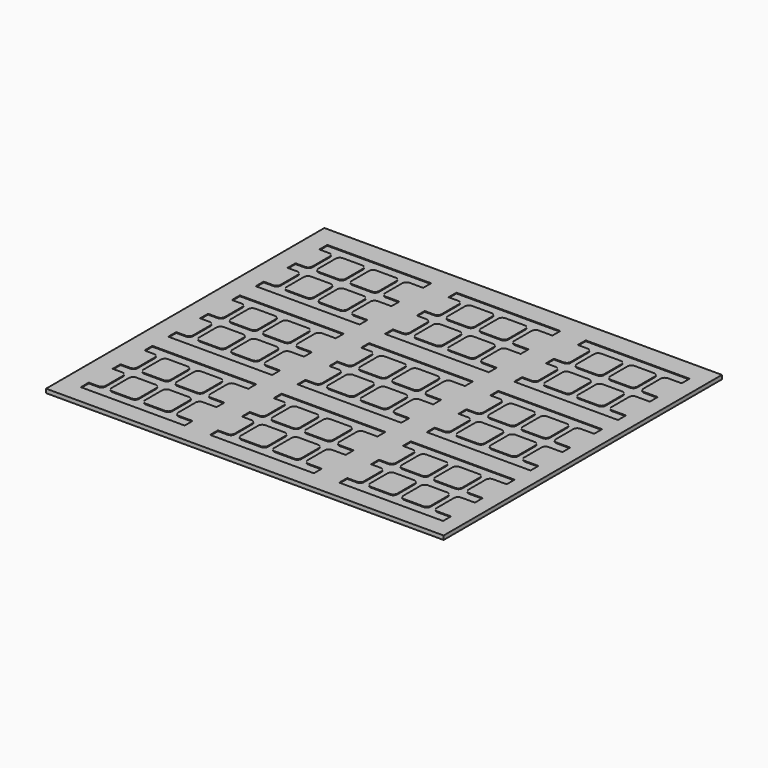
from build123d import *

# Parameters (mm, degrees)
F0_W     = 2
F0_H     = 5
F1_DEPTH = 0.4
F2_W     = 200
F2_H     = 175
F3_DEPTH = 2


with BuildPart() as f1:
    # F0 (on Top) → F1 (new body)
    with BuildSketch(Plane.XY):
        with BuildLine():
            ThreePointArc((20.25, 2.5), (18.835786, 3.085786), (18.25, 4.5))
            Line((18.25, 4.5), (18.25, 15.5))
            ThreePointArc((18.25, 15.5), (18.835786, 16.914214), (20.25, 17.5))
            Line((20.25, 17.5), (25.125, 17.5))
            Line((25.125, 17.5), (25.125, 22.5))
            Line((25.125, 22.5), (-25.125, 22.5))
            Line((-25.125, 22.5), (-25.125, 17.5))
            Line((-25.125, 17.5), (-20.25, 17.5))
            ThreePointArc((-20.25, 17.5), (-18.835786, 16.914214), (-18.25, 15.5))
            Line((-18.25, 15.5), (-18.25, 4.5))
            ThreePointArc((-18.25, 4.5), (-18.835786, 3.085786), (-20.25, 2.5))
            Line((-20.25, 2.5), (-25.125, 2.5))
            Line((-25.125, 2.5), (-25.125, -2.5))
            Line((-25.125, -2.5), (-20.25, -2.5))
            ThreePointArc((-20.25, -2.5), (-18.835786, -3.085786), (-18.25, -4.5))
            Line((-18.25, -4.5), (-18.25, -15.5))
            ThreePointArc((-18.25, -15.5), (-18.835786, -16.914214), (-20.25, -17.5))
            Line((-20.25, -17.5), (-25.125, -17.5))
            Line((-25.125, -17.5), (-25.125, -22.5))
            Line((-25.125, -22.5), (25.125, -22.5))
            Line((25.125, -22.5), (25.125, -17.5))
            Line((25.125, -17.5), (20.25, -17.5))
            ThreePointArc((20.25, -17.5), (18.835786, -16.914214), (18.25, -15.5))
            Line((18.25, -15.5), (18.25, -4.5))
            ThreePointArc((18.25, -4.5), (18.835786, -3.085786), (20.25, -2.5))
            Line((20.25, -2.5), (25.125, -2.5))
            Line((25.125, -2.5), (25.125, 2.5))
            Line((25.125, 2.5), (20.25, 2.5))
        make_face()
        with BuildLine():
            Line((-1.5, -4.5), (-1.5, -15.5))
            ThreePointArc((-1.5, -15.5), (-2.085786, -16.914214), (-3.5, -17.5))
            Line((-3.5, -17.5), (-13.25, -17.5))
            ThreePointArc((-13.25, -17.5), (-14.664214, -16.914214), (-15.25, -15.5))
            Line((-15.25, -15.5), (-15.25, -4.5))
            ThreePointArc((-15.25, -4.5), (-14.664214, -3.085786), (-13.25, -2.5))
            Line((-13.25, -2.5), (-3.5, -2.5))
            ThreePointArc((-3.5, -2.5), (-2.085786, -3.085786), (-1.5, -4.5))
        make_face(mode=Mode.SUBTRACT)
        with BuildLine():
            ThreePointArc((13.25, -2.5), (14.664214, -3.085786), (15.25, -4.5))
            Line((15.25, -4.5), (15.25, -15.5))
            ThreePointArc((15.25, -15.5), (14.664214, -16.914214), (13.25, -17.5))
            Line((13.25, -17.5), (3.5, -17.5))
            ThreePointArc((3.5, -17.5), (2.085786, -16.914214), (1.5, -15.5))
            Line((1.5, -15.5), (1.5, -4.5))
            ThreePointArc((1.5, -4.5), (2.085786, -3.085786), (3.5, -2.5))
            Line((3.5, -2.5), (13.25, -2.5))
        make_face(mode=Mode.SUBTRACT)
        with BuildLine():
            ThreePointArc((-1.5, 4.5), (-2.085786, 3.085786), (-3.5, 2.5))
            Line((-3.5, 2.5), (-13.25, 2.5))
            ThreePointArc((-13.25, 2.5), (-14.664214, 3.085786), (-15.25, 4.5))
            Line((-15.25, 4.5), (-15.25, 15.5))
            ThreePointArc((-15.25, 15.5), (-14.664214, 16.914214), (-13.25, 17.5))
            Line((-13.25, 17.5), (-3.5, 17.5))
            ThreePointArc((-3.5, 17.5), (-2.085786, 16.914214), (-1.5, 15.5))
            Line((-1.5, 15.5), (-1.5, 4.5))
        make_face(mode=Mode.SUBTRACT)
        with BuildLine():
            Line((15.25, 15.5), (15.25, 4.5))
            ThreePointArc((15.25, 4.5), (14.664214, 3.085786), (13.25, 2.5))
            Line((13.25, 2.5), (3.5, 2.5))
            ThreePointArc((3.5, 2.5), (2.085786, 3.085786), (1.5, 4.5))
            Line((1.5, 4.5), (1.5, 15.5))
            ThreePointArc((1.5, 15.5), (2.085786, 16.914214), (3.5, 17.5))
            Line((3.5, 17.5), (13.25, 17.5))
            ThreePointArc((13.25, 17.5), (14.664214, 16.914214), (15.25, 15.5))
        make_face(mode=Mode.SUBTRACT)
        with Locations((26.125, 0)):
            Rectangle(F0_W, F0_H)
        with Locations((26.125, 20)):
            Rectangle(F0_W, F0_H)
        with Locations((26.125, -20)):
            Rectangle(F0_W, F0_H)
        with BuildLine():
            Line((25.125, 52.5), (25.125, 57.5))
            Line((25.125, 57.5), (20.25, 57.5))
            ThreePointArc((20.25, 57.5), (18.835786, 58.085786), (18.25, 59.5))
            Line((18.25, 59.5), (18.25, 70.5))
            ThreePointArc((18.25, 70.5), (18.835786, 71.914214), (20.25, 72.5))
            Line((20.25, 72.5), (25.125, 72.5))
            Line((25.125, 72.5), (25.125, 77.5))
            Line((25.125, 77.5), (-25.125, 77.5))
            Line((-25.125, 77.5), (-25.125, 72.5))
            Line((-25.125, 72.5), (-20.25, 72.5))
            ThreePointArc((-20.25, 72.5), (-18.835786, 71.914214), (-18.25, 70.5))
            Line((-18.25, 70.5), (-18.25, 59.5))
            ThreePointArc((-18.25, 59.5), (-18.835786, 58.085786), (-20.25, 57.5))
            Line((-20.25, 57.5), (-25.125, 57.5))
            Line((-25.125, 57.5), (-25.125, 52.5))
            Line((-25.125, 52.5), (-20.25, 52.5))
            ThreePointArc((-20.25, 52.5), (-18.835786, 51.914214), (-18.25, 50.5))
            Line((-18.25, 50.5), (-18.25, 39.5))
            ThreePointArc((-18.25, 39.5), (-18.835786, 38.085786), (-20.25, 37.5))
            Line((-20.25, 37.5), (-25.125, 37.5))
            Line((-25.125, 37.5), (-25.125, 32.5))
            Line((-25.125, 32.5), (25.125, 32.5))
            Line((25.125, 32.5), (25.125, 37.5))
            Line((25.125, 37.5), (20.25, 37.5))
            ThreePointArc((20.25, 37.5), (18.835786, 38.085786), (18.25, 39.5))
            Line((18.25, 39.5), (18.25, 50.5))
            ThreePointArc((18.25, 50.5), (18.835786, 51.914214), (20.25, 52.5))
            Line((20.25, 52.5), (25.125, 52.5))
        make_face()
        with BuildLine():
            Line((-15.25, 39.5), (-15.25, 50.5))
            ThreePointArc((-15.25, 50.5), (-14.664214, 51.914214), (-13.25, 52.5))
            Line((-13.25, 52.5), (-3.5, 52.5))
            ThreePointArc((-3.5, 52.5), (-2.085786, 51.914214), (-1.5, 50.5))
            Line((-1.5, 50.5), (-1.5, 39.5))
            ThreePointArc((-1.5, 39.5), (-2.085786, 38.085786), (-3.5, 37.5))
            Line((-3.5, 37.5), (-13.25, 37.5))
            ThreePointArc((-13.25, 37.5), (-14.664214, 38.085786), (-15.25, 39.5))
        make_face(mode=Mode.SUBTRACT)
        with BuildLine():
            Line((1.5, 39.5), (1.5, 50.5))
            ThreePointArc((1.5, 50.5), (2.085786, 51.914214), (3.5, 52.5))
            Line((3.5, 52.5), (13.25, 52.5))
            ThreePointArc((13.25, 52.5), (14.664214, 51.914214), (15.25, 50.5))
            Line((15.25, 50.5), (15.25, 39.5))
            ThreePointArc((15.25, 39.5), (14.664214, 38.085786), (13.25, 37.5))
            Line((13.25, 37.5), (3.5, 37.5))
            ThreePointArc((3.5, 37.5), (2.085786, 38.085786), (1.5, 39.5))
        make_face(mode=Mode.SUBTRACT)
        with BuildLine():
            ThreePointArc((-1.5, 59.5), (-2.085786, 58.085786), (-3.5, 57.5))
            Line((-3.5, 57.5), (-13.25, 57.5))
            ThreePointArc((-13.25, 57.5), (-14.664214, 58.085786), (-15.25, 59.5))
            Line((-15.25, 59.5), (-15.25, 70.5))
            ThreePointArc((-15.25, 70.5), (-14.664214, 71.914214), (-13.25, 72.5))
            Line((-13.25, 72.5), (-3.5, 72.5))
            ThreePointArc((-3.5, 72.5), (-2.085786, 71.914214), (-1.5, 70.5))
            Line((-1.5, 70.5), (-1.5, 59.5))
        make_face(mode=Mode.SUBTRACT)
        with BuildLine():
            ThreePointArc((3.5, 57.5), (2.085786, 58.085786), (1.5, 59.5))
            Line((1.5, 59.5), (1.5, 70.5))
            ThreePointArc((1.5, 70.5), (2.085786, 71.914214), (3.5, 72.5))
            Line((3.5, 72.5), (13.25, 72.5))
            ThreePointArc((13.25, 72.5), (14.664214, 71.914214), (15.25, 70.5))
            Line((15.25, 70.5), (15.25, 59.5))
            ThreePointArc((15.25, 59.5), (14.664214, 58.085786), (13.25, 57.5))
            Line((13.25, 57.5), (3.5, 57.5))
        make_face(mode=Mode.SUBTRACT)
        with Locations((26.125, 55)):
            Rectangle(F0_W, F0_H)
        with Locations((26.125, 75)):
            Rectangle(F0_W, F0_H)
        with Locations((26.125, 35)):
            Rectangle(F0_W, F0_H)
        with BuildLine():
            Line((25.125, 107.5), (25.125, 112.5))
            Line((25.125, 112.5), (20.25, 112.5))
            ThreePointArc((20.25, 112.5), (18.835786, 113.085786), (18.25, 114.5))
            Line((18.25, 114.5), (18.25, 125.5))
            ThreePointArc((18.25, 125.5), (18.835786, 126.914214), (20.25, 127.5))
            Line((20.25, 127.5), (25.125, 127.5))
            Line((25.125, 127.5), (25.125, 132.5))
            Line((25.125, 132.5), (-25.125, 132.5))
            Line((-25.125, 132.5), (-25.125, 127.5))
            Line((-25.125, 127.5), (-20.25, 127.5))
            ThreePointArc((-20.25, 127.5), (-18.835786, 126.914214), (-18.25, 125.5))
            Line((-18.25, 125.5), (-18.25, 114.5))
            ThreePointArc((-18.25, 114.5), (-18.835786, 113.085786), (-20.25, 112.5))
            Line((-20.25, 112.5), (-25.125, 112.5))
            Line((-25.125, 112.5), (-25.125, 107.5))
            Line((-25.125, 107.5), (-20.25, 107.5))
            ThreePointArc((-20.25, 107.5), (-18.835786, 106.914214), (-18.25, 105.5))
            Line((-18.25, 105.5), (-18.25, 94.5))
            ThreePointArc((-18.25, 94.5), (-18.835786, 93.085786), (-20.25, 92.5))
            Line((-20.25, 92.5), (-25.125, 92.5))
            Line((-25.125, 92.5), (-25.125, 87.5))
            Line((-25.125, 87.5), (25.125, 87.5))
            Line((25.125, 87.5), (25.125, 92.5))
            Line((25.125, 92.5), (20.25, 92.5))
            ThreePointArc((20.25, 92.5), (18.835786, 93.085786), (18.25, 94.5))
            Line((18.25, 94.5), (18.25, 105.5))
            ThreePointArc((18.25, 105.5), (18.835786, 106.914214), (20.25, 107.5))
            Line((20.25, 107.5), (25.125, 107.5))
        make_face()
        with BuildLine():
            Line((-15.25, 94.5), (-15.25, 105.5))
            ThreePointArc((-15.25, 105.5), (-14.664214, 106.914214), (-13.25, 107.5))
            Line((-13.25, 107.5), (-3.5, 107.5))
            ThreePointArc((-3.5, 107.5), (-2.085786, 106.914214), (-1.5, 105.5))
            Line((-1.5, 105.5), (-1.5, 94.5))
            ThreePointArc((-1.5, 94.5), (-2.085786, 93.085786), (-3.5, 92.5))
            Line((-3.5, 92.5), (-13.25, 92.5))
            ThreePointArc((-13.25, 92.5), (-14.664214, 93.085786), (-15.25, 94.5))
        make_face(mode=Mode.SUBTRACT)
        with BuildLine():
            Line((1.5, 94.5), (1.5, 105.5))
            ThreePointArc((1.5, 105.5), (2.085786, 106.914214), (3.5, 107.5))
            Line((3.5, 107.5), (13.25, 107.5))
            ThreePointArc((13.25, 107.5), (14.664214, 106.914214), (15.25, 105.5))
            Line((15.25, 105.5), (15.25, 94.5))
            ThreePointArc((15.25, 94.5), (14.664214, 93.085786), (13.25, 92.5))
            Line((13.25, 92.5), (3.5, 92.5))
            ThreePointArc((3.5, 92.5), (2.085786, 93.085786), (1.5, 94.5))
        make_face(mode=Mode.SUBTRACT)
        with BuildLine():
            ThreePointArc((-1.5, 114.5), (-2.085786, 113.085786), (-3.5, 112.5))
            Line((-3.5, 112.5), (-13.25, 112.5))
            ThreePointArc((-13.25, 112.5), (-14.664214, 113.085786), (-15.25, 114.5))
            Line((-15.25, 114.5), (-15.25, 125.5))
            ThreePointArc((-15.25, 125.5), (-14.664214, 126.914214), (-13.25, 127.5))
            Line((-13.25, 127.5), (-3.5, 127.5))
            ThreePointArc((-3.5, 127.5), (-2.085786, 126.914214), (-1.5, 125.5))
            Line((-1.5, 125.5), (-1.5, 114.5))
        make_face(mode=Mode.SUBTRACT)
        with BuildLine():
            ThreePointArc((3.5, 112.5), (2.085786, 113.085786), (1.5, 114.5))
            Line((1.5, 114.5), (1.5, 125.5))
            ThreePointArc((1.5, 125.5), (2.085786, 126.914214), (3.5, 127.5))
            Line((3.5, 127.5), (13.25, 127.5))
            ThreePointArc((13.25, 127.5), (14.664214, 126.914214), (15.25, 125.5))
            Line((15.25, 125.5), (15.25, 114.5))
            ThreePointArc((15.25, 114.5), (14.664214, 113.085786), (13.25, 112.5))
            Line((13.25, 112.5), (3.5, 112.5))
        make_face(mode=Mode.SUBTRACT)
        with Locations((26.125, 110)):
            Rectangle(F0_W, F0_H)
        with Locations((26.125, 130)):
            Rectangle(F0_W, F0_H)
        with Locations((26.125, 90)):
            Rectangle(F0_W, F0_H)
        with BuildLine():
            Line((90.125, -2.5), (90.125, 2.5))
            Line((90.125, 2.5), (85.25, 2.5))
            ThreePointArc((85.25, 2.5), (83.835786, 3.085786), (83.25, 4.5))
            Line((83.25, 4.5), (83.25, 15.5))
            ThreePointArc((83.25, 15.5), (83.835786, 16.914214), (85.25, 17.5))
            Line((85.25, 17.5), (90.125, 17.5))
            Line((90.125, 17.5), (90.125, 22.5))
            Line((90.125, 22.5), (39.875, 22.5))
            Line((39.875, 22.5), (39.875, 17.5))
            Line((39.875, 17.5), (44.75, 17.5))
            ThreePointArc((44.75, 17.5), (46.164214, 16.914214), (46.75, 15.5))
            Line((46.75, 15.5), (46.75, 4.5))
            ThreePointArc((46.75, 4.5), (46.164214, 3.085786), (44.75, 2.5))
            Line((44.75, 2.5), (39.875, 2.5))
            Line((39.875, 2.5), (39.875, -2.5))
            Line((39.875, -2.5), (44.75, -2.5))
            ThreePointArc((44.75, -2.5), (46.164214, -3.085786), (46.75, -4.5))
            Line((46.75, -4.5), (46.75, -15.5))
            ThreePointArc((46.75, -15.5), (46.164214, -16.914214), (44.75, -17.5))
            Line((44.75, -17.5), (39.875, -17.5))
            Line((39.875, -17.5), (39.875, -22.5))
            Line((39.875, -22.5), (90.125, -22.5))
            Line((90.125, -22.5), (90.125, -17.5))
            Line((90.125, -17.5), (85.25, -17.5))
            ThreePointArc((85.25, -17.5), (83.835786, -16.914214), (83.25, -15.5))
            Line((83.25, -15.5), (83.25, -4.5))
            ThreePointArc((83.25, -4.5), (83.835786, -3.085786), (85.25, -2.5))
            Line((85.25, -2.5), (90.125, -2.5))
        make_face()
        with BuildLine():
            Line((49.75, -15.5), (49.75, -4.5))
            ThreePointArc((49.75, -4.5), (50.335786, -3.085786), (51.75, -2.5))
            Line((51.75, -2.5), (61.5, -2.5))
            ThreePointArc((61.5, -2.5), (62.914214, -3.085786), (63.5, -4.5))
            Line((63.5, -4.5), (63.5, -15.5))
            ThreePointArc((63.5, -15.5), (62.914214, -16.914214), (61.5, -17.5))
            Line((61.5, -17.5), (51.75, -17.5))
            ThreePointArc((51.75, -17.5), (50.335786, -16.914214), (49.75, -15.5))
        make_face(mode=Mode.SUBTRACT)
        with BuildLine():
            ThreePointArc((63.5, 4.5), (62.914214, 3.085786), (61.5, 2.5))
            Line((61.5, 2.5), (51.75, 2.5))
            ThreePointArc((51.75, 2.5), (50.335786, 3.085786), (49.75, 4.5))
            Line((49.75, 4.5), (49.75, 15.5))
            ThreePointArc((49.75, 15.5), (50.335786, 16.914214), (51.75, 17.5))
            Line((51.75, 17.5), (61.5, 17.5))
            ThreePointArc((61.5, 17.5), (62.914214, 16.914214), (63.5, 15.5))
            Line((63.5, 15.5), (63.5, 4.5))
        make_face(mode=Mode.SUBTRACT)
        with BuildLine():
            Line((66.5, -15.5), (66.5, -4.5))
            ThreePointArc((66.5, -4.5), (67.085786, -3.085786), (68.5, -2.5))
            Line((68.5, -2.5), (78.25, -2.5))
            ThreePointArc((78.25, -2.5), (79.664214, -3.085786), (80.25, -4.5))
            Line((80.25, -4.5), (80.25, -15.5))
            ThreePointArc((80.25, -15.5), (79.664214, -16.914214), (78.25, -17.5))
            Line((78.25, -17.5), (68.5, -17.5))
            ThreePointArc((68.5, -17.5), (67.085786, -16.914214), (66.5, -15.5))
        make_face(mode=Mode.SUBTRACT)
        with BuildLine():
            ThreePointArc((68.5, 2.5), (67.085786, 3.085786), (66.5, 4.5))
            Line((66.5, 4.5), (66.5, 15.5))
            ThreePointArc((66.5, 15.5), (67.085786, 16.914214), (68.5, 17.5))
            Line((68.5, 17.5), (78.25, 17.5))
            ThreePointArc((78.25, 17.5), (79.664214, 16.914214), (80.25, 15.5))
            Line((80.25, 15.5), (80.25, 4.5))
            ThreePointArc((80.25, 4.5), (79.664214, 3.085786), (78.25, 2.5))
            Line((78.25, 2.5), (68.5, 2.5))
        make_face(mode=Mode.SUBTRACT)
        with Locations((91.125, 0)):
            Rectangle(F0_W, F0_H)
        with Locations((91.125, 20)):
            Rectangle(F0_W, F0_H)
        with Locations((91.125, -20)):
            Rectangle(F0_W, F0_H)
        with BuildLine():
            Line((90.125, 52.5), (90.125, 57.5))
            Line((90.125, 57.5), (85.25, 57.5))
            ThreePointArc((85.25, 57.5), (83.835786, 58.085786), (83.25, 59.5))
            Line((83.25, 59.5), (83.25, 70.5))
            ThreePointArc((83.25, 70.5), (83.835786, 71.914214), (85.25, 72.5))
            Line((85.25, 72.5), (90.125, 72.5))
            Line((90.125, 72.5), (90.125, 77.5))
            Line((90.125, 77.5), (39.875, 77.5))
            Line((39.875, 77.5), (39.875, 72.5))
            Line((39.875, 72.5), (44.75, 72.5))
            ThreePointArc((44.75, 72.5), (46.164214, 71.914214), (46.75, 70.5))
            Line((46.75, 70.5), (46.75, 59.5))
            ThreePointArc((46.75, 59.5), (46.164214, 58.085786), (44.75, 57.5))
            Line((44.75, 57.5), (39.875, 57.5))
            Line((39.875, 57.5), (39.875, 52.5))
            Line((39.875, 52.5), (44.75, 52.5))
            ThreePointArc((44.75, 52.5), (46.164214, 51.914214), (46.75, 50.5))
            Line((46.75, 50.5), (46.75, 39.5))
            ThreePointArc((46.75, 39.5), (46.164214, 38.085786), (44.75, 37.5))
            Line((44.75, 37.5), (39.875, 37.5))
            Line((39.875, 37.5), (39.875, 32.5))
            Line((39.875, 32.5), (90.125, 32.5))
            Line((90.125, 32.5), (90.125, 37.5))
            Line((90.125, 37.5), (85.25, 37.5))
            ThreePointArc((85.25, 37.5), (83.835786, 38.085786), (83.25, 39.5))
            Line((83.25, 39.5), (83.25, 50.5))
            ThreePointArc((83.25, 50.5), (83.835786, 51.914214), (85.25, 52.5))
            Line((85.25, 52.5), (90.125, 52.5))
        make_face()
        with BuildLine():
            Line((49.75, 39.5), (49.75, 50.5))
            ThreePointArc((49.75, 50.5), (50.335786, 51.914214), (51.75, 52.5))
            Line((51.75, 52.5), (61.5, 52.5))
            ThreePointArc((61.5, 52.5), (62.914214, 51.914214), (63.5, 50.5))
            Line((63.5, 50.5), (63.5, 39.5))
            ThreePointArc((63.5, 39.5), (62.914214, 38.085786), (61.5, 37.5))
            Line((61.5, 37.5), (51.75, 37.5))
            ThreePointArc((51.75, 37.5), (50.335786, 38.085786), (49.75, 39.5))
        make_face(mode=Mode.SUBTRACT)
        with BuildLine():
            Line((66.5, 39.5), (66.5, 50.5))
            ThreePointArc((66.5, 50.5), (67.085786, 51.914214), (68.5, 52.5))
            Line((68.5, 52.5), (78.25, 52.5))
            ThreePointArc((78.25, 52.5), (79.664214, 51.914214), (80.25, 50.5))
            Line((80.25, 50.5), (80.25, 39.5))
            ThreePointArc((80.25, 39.5), (79.664214, 38.085786), (78.25, 37.5))
            Line((78.25, 37.5), (68.5, 37.5))
            ThreePointArc((68.5, 37.5), (67.085786, 38.085786), (66.5, 39.5))
        make_face(mode=Mode.SUBTRACT)
        with BuildLine():
            ThreePointArc((63.5, 59.5), (62.914214, 58.085786), (61.5, 57.5))
            Line((61.5, 57.5), (51.75, 57.5))
            ThreePointArc((51.75, 57.5), (50.335786, 58.085786), (49.75, 59.5))
            Line((49.75, 59.5), (49.75, 70.5))
            ThreePointArc((49.75, 70.5), (50.335786, 71.914214), (51.75, 72.5))
            Line((51.75, 72.5), (61.5, 72.5))
            ThreePointArc((61.5, 72.5), (62.914214, 71.914214), (63.5, 70.5))
            Line((63.5, 70.5), (63.5, 59.5))
        make_face(mode=Mode.SUBTRACT)
        with BuildLine():
            ThreePointArc((68.5, 57.5), (67.085786, 58.085786), (66.5, 59.5))
            Line((66.5, 59.5), (66.5, 70.5))
            ThreePointArc((66.5, 70.5), (67.085786, 71.914214), (68.5, 72.5))
            Line((68.5, 72.5), (78.25, 72.5))
            ThreePointArc((78.25, 72.5), (79.664214, 71.914214), (80.25, 70.5))
            Line((80.25, 70.5), (80.25, 59.5))
            ThreePointArc((80.25, 59.5), (79.664214, 58.085786), (78.25, 57.5))
            Line((78.25, 57.5), (68.5, 57.5))
        make_face(mode=Mode.SUBTRACT)
        with Locations((91.125, 55)):
            Rectangle(F0_W, F0_H)
        with Locations((91.125, 75)):
            Rectangle(F0_W, F0_H)
        with Locations((91.125, 35)):
            Rectangle(F0_W, F0_H)
        with BuildLine():
            Line((90.125, 107.5), (90.125, 112.5))
            Line((90.125, 112.5), (85.25, 112.5))
            ThreePointArc((85.25, 112.5), (83.835786, 113.085786), (83.25, 114.5))
            Line((83.25, 114.5), (83.25, 125.5))
            ThreePointArc((83.25, 125.5), (83.835786, 126.914214), (85.25, 127.5))
            Line((85.25, 127.5), (90.125, 127.5))
            Line((90.125, 127.5), (90.125, 132.5))
            Line((90.125, 132.5), (39.875, 132.5))
            Line((39.875, 132.5), (39.875, 127.5))
            Line((39.875, 127.5), (44.75, 127.5))
            ThreePointArc((44.75, 127.5), (46.164214, 126.914214), (46.75, 125.5))
            Line((46.75, 125.5), (46.75, 114.5))
            ThreePointArc((46.75, 114.5), (46.164214, 113.085786), (44.75, 112.5))
            Line((44.75, 112.5), (39.875, 112.5))
            Line((39.875, 112.5), (39.875, 107.5))
            Line((39.875, 107.5), (44.75, 107.5))
            ThreePointArc((44.75, 107.5), (46.164214, 106.914214), (46.75, 105.5))
            Line((46.75, 105.5), (46.75, 94.5))
            ThreePointArc((46.75, 94.5), (46.164214, 93.085786), (44.75, 92.5))
            Line((44.75, 92.5), (39.875, 92.5))
            Line((39.875, 92.5), (39.875, 87.5))
            Line((39.875, 87.5), (90.125, 87.5))
            Line((90.125, 87.5), (90.125, 92.5))
            Line((90.125, 92.5), (85.25, 92.5))
            ThreePointArc((85.25, 92.5), (83.835786, 93.085786), (83.25, 94.5))
            Line((83.25, 94.5), (83.25, 105.5))
            ThreePointArc((83.25, 105.5), (83.835786, 106.914214), (85.25, 107.5))
            Line((85.25, 107.5), (90.125, 107.5))
        make_face()
        with BuildLine():
            Line((49.75, 94.5), (49.75, 105.5))
            ThreePointArc((49.75, 105.5), (50.335786, 106.914214), (51.75, 107.5))
            Line((51.75, 107.5), (61.5, 107.5))
            ThreePointArc((61.5, 107.5), (62.914214, 106.914214), (63.5, 105.5))
            Line((63.5, 105.5), (63.5, 94.5))
            ThreePointArc((63.5, 94.5), (62.914214, 93.085786), (61.5, 92.5))
            Line((61.5, 92.5), (51.75, 92.5))
            ThreePointArc((51.75, 92.5), (50.335786, 93.085786), (49.75, 94.5))
        make_face(mode=Mode.SUBTRACT)
        with BuildLine():
            ThreePointArc((63.5, 114.5), (62.914214, 113.085786), (61.5, 112.5))
            Line((61.5, 112.5), (51.75, 112.5))
            ThreePointArc((51.75, 112.5), (50.335786, 113.085786), (49.75, 114.5))
            Line((49.75, 114.5), (49.75, 125.5))
            ThreePointArc((49.75, 125.5), (50.335786, 126.914214), (51.75, 127.5))
            Line((51.75, 127.5), (61.5, 127.5))
            ThreePointArc((61.5, 127.5), (62.914214, 126.914214), (63.5, 125.5))
            Line((63.5, 125.5), (63.5, 114.5))
        make_face(mode=Mode.SUBTRACT)
        with BuildLine():
            Line((66.5, 94.5), (66.5, 105.5))
            ThreePointArc((66.5, 105.5), (67.085786, 106.914214), (68.5, 107.5))
            Line((68.5, 107.5), (78.25, 107.5))
            ThreePointArc((78.25, 107.5), (79.664214, 106.914214), (80.25, 105.5))
            Line((80.25, 105.5), (80.25, 94.5))
            ThreePointArc((80.25, 94.5), (79.664214, 93.085786), (78.25, 92.5))
            Line((78.25, 92.5), (68.5, 92.5))
            ThreePointArc((68.5, 92.5), (67.085786, 93.085786), (66.5, 94.5))
        make_face(mode=Mode.SUBTRACT)
        with BuildLine():
            ThreePointArc((68.5, 112.5), (67.085786, 113.085786), (66.5, 114.5))
            Line((66.5, 114.5), (66.5, 125.5))
            ThreePointArc((66.5, 125.5), (67.085786, 126.914214), (68.5, 127.5))
            Line((68.5, 127.5), (78.25, 127.5))
            ThreePointArc((78.25, 127.5), (79.664214, 126.914214), (80.25, 125.5))
            Line((80.25, 125.5), (80.25, 114.5))
            ThreePointArc((80.25, 114.5), (79.664214, 113.085786), (78.25, 112.5))
            Line((78.25, 112.5), (68.5, 112.5))
        make_face(mode=Mode.SUBTRACT)
        with Locations((91.125, 110)):
            Rectangle(F0_W, F0_H)
        with Locations((91.125, 130)):
            Rectangle(F0_W, F0_H)
        with Locations((91.125, 90)):
            Rectangle(F0_W, F0_H)
        with BuildLine():
            Line((155.125, -2.5), (155.125, 2.5))
            Line((155.125, 2.5), (150.25, 2.5))
            ThreePointArc((150.25, 2.5), (148.835786, 3.085786), (148.25, 4.5))
            Line((148.25, 4.5), (148.25, 15.5))
            ThreePointArc((148.25, 15.5), (148.835786, 16.914214), (150.25, 17.5))
            Line((150.25, 17.5), (155.125, 17.5))
            Line((155.125, 17.5), (155.125, 22.5))
            Line((155.125, 22.5), (104.875, 22.5))
            Line((104.875, 22.5), (104.875, 17.5))
            Line((104.875, 17.5), (109.75, 17.5))
            ThreePointArc((109.75, 17.5), (111.164214, 16.914214), (111.75, 15.5))
            Line((111.75, 15.5), (111.75, 4.5))
            ThreePointArc((111.75, 4.5), (111.164214, 3.085786), (109.75, 2.5))
            Line((109.75, 2.5), (104.875, 2.5))
            Line((104.875, 2.5), (104.875, -2.5))
            Line((104.875, -2.5), (109.75, -2.5))
            ThreePointArc((109.75, -2.5), (111.164214, -3.085786), (111.75, -4.5))
            Line((111.75, -4.5), (111.75, -15.5))
            ThreePointArc((111.75, -15.5), (111.164214, -16.914214), (109.75, -17.5))
            Line((109.75, -17.5), (104.875, -17.5))
            Line((104.875, -17.5), (104.875, -22.5))
            Line((104.875, -22.5), (155.125, -22.5))
            Line((155.125, -22.5), (155.125, -17.5))
            Line((155.125, -17.5), (150.25, -17.5))
            ThreePointArc((150.25, -17.5), (148.835786, -16.914214), (148.25, -15.5))
            Line((148.25, -15.5), (148.25, -4.5))
            ThreePointArc((148.25, -4.5), (148.835786, -3.085786), (150.25, -2.5))
            Line((150.25, -2.5), (155.125, -2.5))
        make_face()
        with BuildLine():
            Line((114.75, -15.5), (114.75, -4.5))
            ThreePointArc((114.75, -4.5), (115.335786, -3.085786), (116.75, -2.5))
            Line((116.75, -2.5), (126.5, -2.5))
            ThreePointArc((126.5, -2.5), (127.914214, -3.085786), (128.5, -4.5))
            Line((128.5, -4.5), (128.5, -15.5))
            ThreePointArc((128.5, -15.5), (127.914214, -16.914214), (126.5, -17.5))
            Line((126.5, -17.5), (116.75, -17.5))
            ThreePointArc((116.75, -17.5), (115.335786, -16.914214), (114.75, -15.5))
        make_face(mode=Mode.SUBTRACT)
        with BuildLine():
            Line((131.5, -15.5), (131.5, -4.5))
            ThreePointArc((131.5, -4.5), (132.085786, -3.085786), (133.5, -2.5))
            Line((133.5, -2.5), (143.25, -2.5))
            ThreePointArc((143.25, -2.5), (144.664214, -3.085786), (145.25, -4.5))
            Line((145.25, -4.5), (145.25, -15.5))
            ThreePointArc((145.25, -15.5), (144.664214, -16.914214), (143.25, -17.5))
            Line((143.25, -17.5), (133.5, -17.5))
            ThreePointArc((133.5, -17.5), (132.085786, -16.914214), (131.5, -15.5))
        make_face(mode=Mode.SUBTRACT)
        with BuildLine():
            ThreePointArc((128.5, 4.5), (127.914214, 3.085786), (126.5, 2.5))
            Line((126.5, 2.5), (116.75, 2.5))
            ThreePointArc((116.75, 2.5), (115.335786, 3.085786), (114.75, 4.5))
            Line((114.75, 4.5), (114.75, 15.5))
            ThreePointArc((114.75, 15.5), (115.335786, 16.914214), (116.75, 17.5))
            Line((116.75, 17.5), (126.5, 17.5))
            ThreePointArc((126.5, 17.5), (127.914214, 16.914214), (128.5, 15.5))
            Line((128.5, 15.5), (128.5, 4.5))
        make_face(mode=Mode.SUBTRACT)
        with BuildLine():
            ThreePointArc((133.5, 2.5), (132.085786, 3.085786), (131.5, 4.5))
            Line((131.5, 4.5), (131.5, 15.5))
            ThreePointArc((131.5, 15.5), (132.085786, 16.914214), (133.5, 17.5))
            Line((133.5, 17.5), (143.25, 17.5))
            ThreePointArc((143.25, 17.5), (144.664214, 16.914214), (145.25, 15.5))
            Line((145.25, 15.5), (145.25, 4.5))
            ThreePointArc((145.25, 4.5), (144.664214, 3.085786), (143.25, 2.5))
            Line((143.25, 2.5), (133.5, 2.5))
        make_face(mode=Mode.SUBTRACT)
        with Locations((156.125, 0)):
            Rectangle(F0_W, F0_H)
        with Locations((156.125, 20)):
            Rectangle(F0_W, F0_H)
        with Locations((156.125, -20)):
            Rectangle(F0_W, F0_H)
        with BuildLine():
            Line((155.125, 52.5), (155.125, 57.5))
            Line((155.125, 57.5), (150.25, 57.5))
            ThreePointArc((150.25, 57.5), (148.835786, 58.085786), (148.25, 59.5))
            Line((148.25, 59.5), (148.25, 70.5))
            ThreePointArc((148.25, 70.5), (148.835786, 71.914214), (150.25, 72.5))
            Line((150.25, 72.5), (155.125, 72.5))
            Line((155.125, 72.5), (155.125, 77.5))
            Line((155.125, 77.5), (104.875, 77.5))
            Line((104.875, 77.5), (104.875, 72.5))
            Line((104.875, 72.5), (109.75, 72.5))
            ThreePointArc((109.75, 72.5), (111.164214, 71.914214), (111.75, 70.5))
            Line((111.75, 70.5), (111.75, 59.5))
            ThreePointArc((111.75, 59.5), (111.164214, 58.085786), (109.75, 57.5))
            Line((109.75, 57.5), (104.875, 57.5))
            Line((104.875, 57.5), (104.875, 52.5))
            Line((104.875, 52.5), (109.75, 52.5))
            ThreePointArc((109.75, 52.5), (111.164214, 51.914214), (111.75, 50.5))
            Line((111.75, 50.5), (111.75, 39.5))
            ThreePointArc((111.75, 39.5), (111.164214, 38.085786), (109.75, 37.5))
            Line((109.75, 37.5), (104.875, 37.5))
            Line((104.875, 37.5), (104.875, 32.5))
            Line((104.875, 32.5), (155.125, 32.5))
            Line((155.125, 32.5), (155.125, 37.5))
            Line((155.125, 37.5), (150.25, 37.5))
            ThreePointArc((150.25, 37.5), (148.835786, 38.085786), (148.25, 39.5))
            Line((148.25, 39.5), (148.25, 50.5))
            ThreePointArc((148.25, 50.5), (148.835786, 51.914214), (150.25, 52.5))
            Line((150.25, 52.5), (155.125, 52.5))
        make_face()
        with BuildLine():
            Line((114.75, 39.5), (114.75, 50.5))
            ThreePointArc((114.75, 50.5), (115.335786, 51.914214), (116.75, 52.5))
            Line((116.75, 52.5), (126.5, 52.5))
            ThreePointArc((126.5, 52.5), (127.914214, 51.914214), (128.5, 50.5))
            Line((128.5, 50.5), (128.5, 39.5))
            ThreePointArc((128.5, 39.5), (127.914214, 38.085786), (126.5, 37.5))
            Line((126.5, 37.5), (116.75, 37.5))
            ThreePointArc((116.75, 37.5), (115.335786, 38.085786), (114.75, 39.5))
        make_face(mode=Mode.SUBTRACT)
        with BuildLine():
            Line((131.5, 39.5), (131.5, 50.5))
            ThreePointArc((131.5, 50.5), (132.085786, 51.914214), (133.5, 52.5))
            Line((133.5, 52.5), (143.25, 52.5))
            ThreePointArc((143.25, 52.5), (144.664214, 51.914214), (145.25, 50.5))
            Line((145.25, 50.5), (145.25, 39.5))
            ThreePointArc((145.25, 39.5), (144.664214, 38.085786), (143.25, 37.5))
            Line((143.25, 37.5), (133.5, 37.5))
            ThreePointArc((133.5, 37.5), (132.085786, 38.085786), (131.5, 39.5))
        make_face(mode=Mode.SUBTRACT)
        with BuildLine():
            ThreePointArc((128.5, 59.5), (127.914214, 58.085786), (126.5, 57.5))
            Line((126.5, 57.5), (116.75, 57.5))
            ThreePointArc((116.75, 57.5), (115.335786, 58.085786), (114.75, 59.5))
            Line((114.75, 59.5), (114.75, 70.5))
            ThreePointArc((114.75, 70.5), (115.335786, 71.914214), (116.75, 72.5))
            Line((116.75, 72.5), (126.5, 72.5))
            ThreePointArc((126.5, 72.5), (127.914214, 71.914214), (128.5, 70.5))
            Line((128.5, 70.5), (128.5, 59.5))
        make_face(mode=Mode.SUBTRACT)
        with BuildLine():
            ThreePointArc((133.5, 57.5), (132.085786, 58.085786), (131.5, 59.5))
            Line((131.5, 59.5), (131.5, 70.5))
            ThreePointArc((131.5, 70.5), (132.085786, 71.914214), (133.5, 72.5))
            Line((133.5, 72.5), (143.25, 72.5))
            ThreePointArc((143.25, 72.5), (144.664214, 71.914214), (145.25, 70.5))
            Line((145.25, 70.5), (145.25, 59.5))
            ThreePointArc((145.25, 59.5), (144.664214, 58.085786), (143.25, 57.5))
            Line((143.25, 57.5), (133.5, 57.5))
        make_face(mode=Mode.SUBTRACT)
        with Locations((156.125, 55)):
            Rectangle(F0_W, F0_H)
        with Locations((156.125, 75)):
            Rectangle(F0_W, F0_H)
        with Locations((156.125, 35)):
            Rectangle(F0_W, F0_H)
        with BuildLine():
            Line((155.125, 107.5), (155.125, 112.5))
            Line((155.125, 112.5), (150.25, 112.5))
            ThreePointArc((150.25, 112.5), (148.835786, 113.085786), (148.25, 114.5))
            Line((148.25, 114.5), (148.25, 125.5))
            ThreePointArc((148.25, 125.5), (148.835786, 126.914214), (150.25, 127.5))
            Line((150.25, 127.5), (155.125, 127.5))
            Line((155.125, 127.5), (155.125, 132.5))
            Line((155.125, 132.5), (104.875, 132.5))
            Line((104.875, 132.5), (104.875, 127.5))
            Line((104.875, 127.5), (109.75, 127.5))
            ThreePointArc((109.75, 127.5), (111.164214, 126.914214), (111.75, 125.5))
            Line((111.75, 125.5), (111.75, 114.5))
            ThreePointArc((111.75, 114.5), (111.164214, 113.085786), (109.75, 112.5))
            Line((109.75, 112.5), (104.875, 112.5))
            Line((104.875, 112.5), (104.875, 107.5))
            Line((104.875, 107.5), (109.75, 107.5))
            ThreePointArc((109.75, 107.5), (111.164214, 106.914214), (111.75, 105.5))
            Line((111.75, 105.5), (111.75, 94.5))
            ThreePointArc((111.75, 94.5), (111.164214, 93.085786), (109.75, 92.5))
            Line((109.75, 92.5), (104.875, 92.5))
            Line((104.875, 92.5), (104.875, 87.5))
            Line((104.875, 87.5), (155.125, 87.5))
            Line((155.125, 87.5), (155.125, 92.5))
            Line((155.125, 92.5), (150.25, 92.5))
            ThreePointArc((150.25, 92.5), (148.835786, 93.085786), (148.25, 94.5))
            Line((148.25, 94.5), (148.25, 105.5))
            ThreePointArc((148.25, 105.5), (148.835786, 106.914214), (150.25, 107.5))
            Line((150.25, 107.5), (155.125, 107.5))
        make_face()
        with BuildLine():
            Line((114.75, 94.5), (114.75, 105.5))
            ThreePointArc((114.75, 105.5), (115.335786, 106.914214), (116.75, 107.5))
            Line((116.75, 107.5), (126.5, 107.5))
            ThreePointArc((126.5, 107.5), (127.914214, 106.914214), (128.5, 105.5))
            Line((128.5, 105.5), (128.5, 94.5))
            ThreePointArc((128.5, 94.5), (127.914214, 93.085786), (126.5, 92.5))
            Line((126.5, 92.5), (116.75, 92.5))
            ThreePointArc((116.75, 92.5), (115.335786, 93.085786), (114.75, 94.5))
        make_face(mode=Mode.SUBTRACT)
        with BuildLine():
            Line((131.5, 94.5), (131.5, 105.5))
            ThreePointArc((131.5, 105.5), (132.085786, 106.914214), (133.5, 107.5))
            Line((133.5, 107.5), (143.25, 107.5))
            ThreePointArc((143.25, 107.5), (144.664214, 106.914214), (145.25, 105.5))
            Line((145.25, 105.5), (145.25, 94.5))
            ThreePointArc((145.25, 94.5), (144.664214, 93.085786), (143.25, 92.5))
            Line((143.25, 92.5), (133.5, 92.5))
            ThreePointArc((133.5, 92.5), (132.085786, 93.085786), (131.5, 94.5))
        make_face(mode=Mode.SUBTRACT)
        with BuildLine():
            ThreePointArc((128.5, 114.5), (127.914214, 113.085786), (126.5, 112.5))
            Line((126.5, 112.5), (116.75, 112.5))
            ThreePointArc((116.75, 112.5), (115.335786, 113.085786), (114.75, 114.5))
            Line((114.75, 114.5), (114.75, 125.5))
            ThreePointArc((114.75, 125.5), (115.335786, 126.914214), (116.75, 127.5))
            Line((116.75, 127.5), (126.5, 127.5))
            ThreePointArc((126.5, 127.5), (127.914214, 126.914214), (128.5, 125.5))
            Line((128.5, 125.5), (128.5, 114.5))
        make_face(mode=Mode.SUBTRACT)
        with BuildLine():
            ThreePointArc((133.5, 112.5), (132.085786, 113.085786), (131.5, 114.5))
            Line((131.5, 114.5), (131.5, 125.5))
            ThreePointArc((131.5, 125.5), (132.085786, 126.914214), (133.5, 127.5))
            Line((133.5, 127.5), (143.25, 127.5))
            ThreePointArc((143.25, 127.5), (144.664214, 126.914214), (145.25, 125.5))
            Line((145.25, 125.5), (145.25, 114.5))
            ThreePointArc((145.25, 114.5), (144.664214, 113.085786), (143.25, 112.5))
            Line((143.25, 112.5), (133.5, 112.5))
        make_face(mode=Mode.SUBTRACT)
        with Locations((156.125, 110)):
            Rectangle(F0_W, F0_H)
        with Locations((156.125, 130)):
            Rectangle(F0_W, F0_H)
        with Locations((156.125, 90)):
            Rectangle(F0_W, F0_H)
    extrude(amount=F1_DEPTH)


with BuildPart() as f3:
    # F2 (on Top) → F3 (new body)
    with BuildSketch(Plane.XY):
        with Locations((65, 55.5)):
            Rectangle(F2_W, F2_H)
    extrude(amount=-F3_DEPTH)


with BuildPart() as f3_1:
    # F4: moved
    add(f3.part.moved(Location((0, 0, 0.4))))

    # F5: cut F1
    add(f1.part, mode=Mode.SUBTRACT)


solid = f3_1.part
